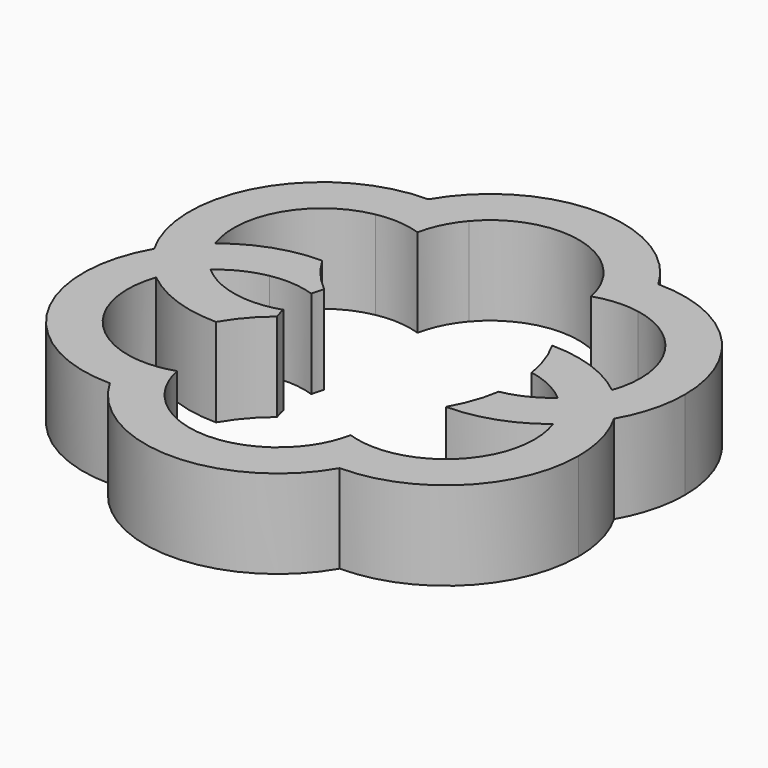
from build123d import *

# Parameters (mm, degrees)
F1_DEPTH = 5


with BuildPart() as f1:
    # F0 (on Top) → F1 (new body)
    with BuildSketch(Plane.XY):
        with BuildLine():
            ThreePointArc((11.2092357363, 2.0833333333), (10.6388748257, 0.951807647), (9.8023796672, 0))
            ThreePointArc((9.8023796672, 0), (10.6388748257, -0.951807647), (11.2092357363, -2.0833333333))
            ThreePointArc((11.2092357363, -2.0833333333), (12.1957879438, -1.123724357), (12.9903810568, 0))
            ThreePointArc((12.9903810568, 0), (12.1957879438, 1.123724357), (11.2092357363, 2.0833333333))
        make_face()
        with BuildLine():
            ThreePointArc((11.4951905284, 3.75), (11.4231833267, 2.9044901064), (11.2092357363, 2.0833333333))
            ThreePointArc((11.2092357363, 2.0833333333), (12.1957879438, 1.123724357), (12.9903810568, 0))
            ThreePointArc((12.9903810568, 0), (13.7396342256, 1.8088571617), (13.9951905284, 3.75))
            ThreePointArc((13.9951905284, 3.75), (11.7984913873, 9.0533008589), (6.4951905284, 11.25))
            ThreePointArc((6.4951905284, 11.25), (7.0710678119, 10), (7.4088374594, 8.665816238))
            ThreePointArc((7.4088374594, 8.665816238), (10.3402025345, 6.9462294462), (11.4951905284, 3.75))
        make_face()
        with BuildLine():
            ThreePointArc((12.9903810568, 0), (12.1957879438, -1.123724357), (11.2092357363, -2.0833333333))
            ThreePointArc((11.2092357363, -2.0833333333), (11.4231833267, -2.9044901064), (11.4951905284, -3.75))
            ThreePointArc((11.4951905284, -3.75), (10.3402025345, -6.9462294462), (7.4088374594, -8.665816238))
            ThreePointArc((7.4088374594, -8.665816238), (7.0710678119, -10), (6.4951905284, -11.25))
            ThreePointArc((6.4951905284, -11.25), (11.7984913873, -9.0533008589), (13.9951905284, -3.75))
            ThreePointArc((13.9951905284, -3.75), (13.7396342256, -1.8088571617), (12.9903810568, 0))
        make_face()
        with BuildLine():
            ThreePointArc((4.9011898336, 8.4891098093), (6.1437270147, 8.7376320432), (7.4088374594, 8.665816238))
            ThreePointArc((7.4088374594, 8.665816238), (7.0710678119, 10), (6.4951905284, 11.25))
            ThreePointArc((6.4951905284, 11.25), (5.1247201319, 11.123724357), (3.8003982769, 10.7491495713))
            ThreePointArc((3.8003982769, 10.7491495713), (4.495147811, 9.6894396902), (4.9011898336, 8.4891098093))
        make_face()
        with BuildLine():
            ThreePointArc((6.4951905284, -11.25), (7.0710678119, -10), (7.4088374594, -8.665816238))
            ThreePointArc((7.4088374594, -8.665816238), (6.1437270147, -8.7376320432), (4.9011898336, -8.4891098093))
            ThreePointArc((4.9011898336, -8.4891098093), (4.495147811, -9.6894396902), (3.8003982769, -10.7491495713))
            ThreePointArc((3.8003982769, -10.7491495713), (5.1247201319, -11.123724357), (6.4951905284, -11.25))
        make_face()
        with BuildLine():
            ThreePointArc((3.8003982769, 10.7491495713), (5.1247201319, 11.123724357), (6.4951905284, 11.25))
            ThreePointArc((6.4951905284, 11.25), (0, 15), (-6.4951905284, 11.25))
            ThreePointArc((-6.4951905284, 11.25), (-5.1247201319, 11.123724357), (-3.8003982769, 10.7491495713))
            ThreePointArc((-3.8003982769, 10.7491495713), (0, 12.5), (3.8003982769, 10.7491495713))
        make_face()
        with BuildLine():
            ThreePointArc((-6.4951905284, -11.25), (0, -15), (6.4951905284, -11.25))
            ThreePointArc((6.4951905284, -11.25), (5.1247201319, -11.123724357), (3.8003982769, -10.7491495713))
            ThreePointArc((3.8003982769, -10.7491495713), (0, -12.5), (-3.8003982769, -10.7491495713))
            ThreePointArc((-3.8003982769, -10.7491495713), (-5.1247201319, -11.123724357), (-6.4951905284, -11.25))
        make_face()
        with BuildLine():
            ThreePointArc((-4.9011898336, 8.4891098093), (-4.495147811, 9.6894396902), (-3.8003982769, 10.7491495713))
            ThreePointArc((-3.8003982769, 10.7491495713), (-5.1247201319, 11.123724357), (-6.4951905284, 11.25))
            ThreePointArc((-6.4951905284, 11.25), (-7.0710678119, 10), (-7.4088374594, 8.665816238))
            ThreePointArc((-7.4088374594, 8.665816238), (-6.1437270147, 8.7376320432), (-4.9011898336, 8.4891098093))
        make_face()
        with BuildLine():
            ThreePointArc((-7.4088374594, 8.665816238), (-7.0710678119, 10), (-6.4951905284, 11.25))
            ThreePointArc((-6.4951905284, 11.25), (-12.9903810568, 7.5), (-12.9903810568, 0))
            ThreePointArc((-12.9903810568, 0), (-12.1957879438, 1.123724357), (-11.2092357363, 2.0833333333))
            ThreePointArc((-11.2092357363, 2.0833333333), (-10.8253175473, 6.25), (-7.4088374594, 8.665816238))
        make_face()
        with BuildLine():
            ThreePointArc((-6.4951905284, -11.25), (-5.1247201319, -11.123724357), (-3.8003982769, -10.7491495713))
            ThreePointArc((-3.8003982769, -10.7491495713), (-4.495147811, -9.6894396902), (-4.9011898336, -8.4891098093))
            ThreePointArc((-4.9011898336, -8.4891098093), (-6.1437270147, -8.7376320432), (-7.4088374594, -8.665816238))
            ThreePointArc((-7.4088374594, -8.665816238), (-7.0710678119, -10), (-6.4951905284, -11.25))
        make_face()
        with BuildLine():
            ThreePointArc((-12.9903810568, 0), (-12.9903810568, -7.5), (-6.4951905284, -11.25))
            ThreePointArc((-6.4951905284, -11.25), (-7.0710678119, -10), (-7.4088374594, -8.665816238))
            ThreePointArc((-7.4088374594, -8.665816238), (-10.8253175473, -6.25), (-11.2092357363, -2.0833333333))
            ThreePointArc((-11.2092357363, -2.0833333333), (-12.1957879438, -1.123724357), (-12.9903810568, 0))
        make_face()
        with BuildLine():
            ThreePointArc((-11.2092357363, 2.0833333333), (-12.1957879438, 1.123724357), (-12.9903810568, 0))
            ThreePointArc((-12.9903810568, 0), (-12.1957879438, -1.123724357), (-11.2092357363, -2.0833333333))
            ThreePointArc((-11.2092357363, -2.0833333333), (-10.6388748257, -0.951807647), (-9.8023796672, 0))
            ThreePointArc((-9.8023796672, 0), (-10.6388748257, 0.951807647), (-11.2092357363, 2.0833333333))
        make_face()
        with BuildLine():
            ThreePointArc((-11.2092357363, -2.0833333333), (-8.9951905284, -3.3210678119), (-6.4951905284, -3.75))
            ThreePointArc((-6.4951905284, -3.75), (-7.0710678119, -2.5), (-7.4088374594, -1.165816238))
            ThreePointArc((-7.4088374594, -1.165816238), (-8.6846302186, -0.745147811), (-9.8023796672, 0))
            ThreePointArc((-9.8023796672, 0), (-10.6388748257, -0.951807647), (-11.2092357363, -2.0833333333))
        make_face()
        with BuildLine():
            ThreePointArc((-7.4088374594, 1.165816238), (-7.0710678119, 2.5), (-6.4951905284, 3.75))
            ThreePointArc((-6.4951905284, 3.75), (-8.9951905284, 3.3210678119), (-11.2092357363, 2.0833333333))
            ThreePointArc((-11.2092357363, 2.0833333333), (-10.6388748257, 0.951807647), (-9.8023796672, 0))
            ThreePointArc((-9.8023796672, 0), (-8.6846302186, 0.745147811), (-7.4088374594, 1.165816238))
        make_face()
        with BuildLine():
            ThreePointArc((-4.9011898336, 0.9891098093), (-4.819539091, 1.3311810359), (-4.7140452079, 1.6666666667))
            ThreePointArc((-4.7140452079, 1.6666666667), (-5.7005974154, 2.626275643), (-6.4951905284, 3.75))
            ThreePointArc((-6.4951905284, 3.75), (-7.0710678119, 2.5), (-7.4088374594, 1.165816238))
            ThreePointArc((-7.4088374594, 1.165816238), (-6.1437270147, 1.2376320432), (-4.9011898336, 0.9891098093))
        make_face()
        with BuildLine():
            ThreePointArc((-6.4951905284, -3.75), (-5.7005974154, -2.626275643), (-4.7140452079, -1.6666666667))
            ThreePointArc((-4.7140452079, -1.6666666667), (-4.819539091, -1.3311810359), (-4.9011898336, -0.9891098093))
            ThreePointArc((-4.9011898336, -0.9891098093), (-6.1437270147, -1.2376320432), (-7.4088374594, -1.165816238))
            ThreePointArc((-7.4088374594, -1.165816238), (-7.0710678119, -2.5), (-6.4951905284, -3.75))
        make_face()
        with BuildLine():
            ThreePointArc((9.8023796672, 0), (8.6846302186, -0.745147811), (7.4088374594, -1.165816238))
            ThreePointArc((7.4088374594, -1.165816238), (7.0710678119, -2.5), (6.4951905284, -3.75))
            ThreePointArc((6.4951905284, -3.75), (8.9951905284, -3.3210678119), (11.2092357363, -2.0833333333))
            ThreePointArc((11.2092357363, -2.0833333333), (10.6388748257, -0.951807647), (9.8023796672, 0))
        make_face()
        with BuildLine():
            ThreePointArc((6.4951905284, 3.75), (7.0710678119, 2.5), (7.4088374594, 1.165816238))
            ThreePointArc((7.4088374594, 1.165816238), (8.6846302186, 0.745147811), (9.8023796672, 0))
            ThreePointArc((9.8023796672, 0), (10.6388748257, 0.951807647), (11.2092357363, 2.0833333333))
            ThreePointArc((11.2092357363, 2.0833333333), (8.9951905284, 3.3210678119), (6.4951905284, 3.75))
        make_face()
    extrude(amount=F1_DEPTH)


solid = f1.part
